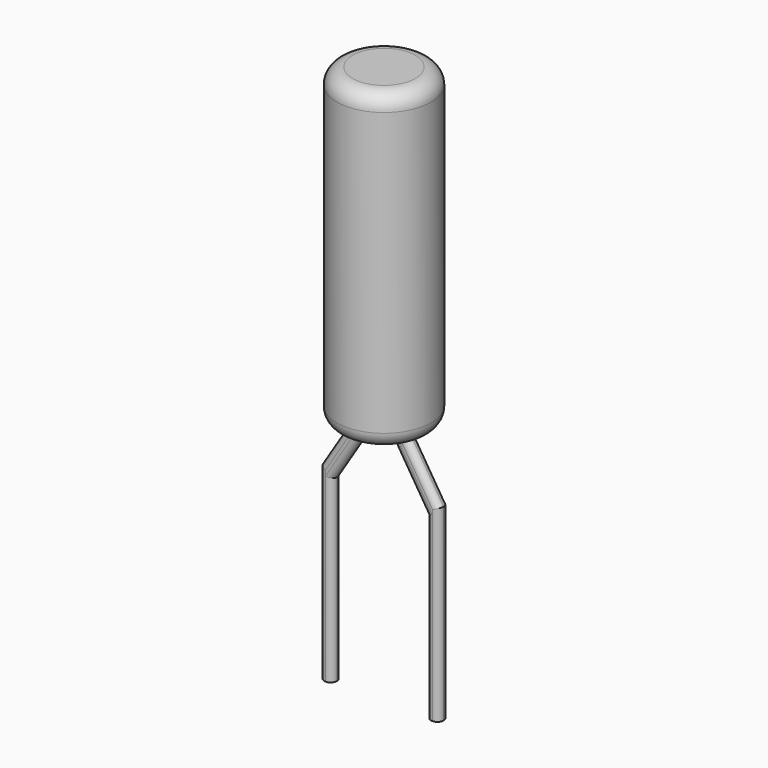
from build123d import *

# Parameters (mm, degrees)
PAD_DEPTH = 0.1
FILLET_R  = 0.0998


with BuildPart() as revolution:
    # Sketch002 → Revolution (revolve)
    with BuildSketch(Plane.XZ):
        with BuildLine():
            Line((0.35, 5.96), (0.85, 5.96))
            Line((0.85, 0.96), (0.85, 5.96))
            Line((0.85, 0.96), (0.35, 0.96))
            ThreePointArc((0.1, 1.21), (0.173223, 1.033223), (0.35, 0.96))
            Line((0.1, 1.21), (0.1, 5.71))
            ThreePointArc((0.35, 5.96), (0.173223, 5.886777), (0.1, 5.71))
        make_face()
    revolve(axis=Axis((0.85, 0, 5.96), (0, 0, -1)))


with BuildPart() as fillet_body:
    # Sketch → Pad (new body, symmetric)
    with BuildSketch(Plane.XZ):
        Polygon((0.1, -2.9), (0.1, -0.041421), (0.6, 0.758579), (0.6, 1), (0.4, 1), (0.4, 0.9), (-0.1, 0.1), (-0.1, -2.9), align=None)
        Polygon((1.1, 1), (1.3, 1), (1.3, 0.9), (1.8, 0.1), (1.8, -2.9), (1.6, -2.9), (1.6, -0.041421), (1.1, 0.758579), align=None)
    extrude(amount=PAD_DEPTH, both=True)

    # Fillet
    fillet_edges = [fillet_body.edges().sort_by_distance(p)[0] for p in [
        (0.15, -0.1, 0.5),
        (0.4, -0.1, 0.95),
        (0.6, -0.1, 0.879289),
        (0.35, -0.1, 0.358579),
        (0.1, -0.1, -1.470711),
        (-0.1, -0.1, -1.4),
        (0.1, 0.1, -1.470711),
        (0.35, 0.1, 0.358579),
        (0.6, 0.1, 0.879289),
        (1.35, -0.1, 0.358579),
        (1.1, -0.1, 0.879289),
        (1.6, -0.1, -1.470711),
        (1.8, -0.1, -1.4),
        (1.55, -0.1, 0.5),
        (1.3, -0.1, 0.95),
        (1.3, 0.1, 0.95),
        (1.55, 0.1, 0.5),
        (1.8, 0.1, -1.4),
        (1.6, 0.1, -1.470711),
        (1.35, 0.1, 0.358579),
        (1.1, 0.1, 0.879289),
        (0.4, 0.1, 0.95),
        (-0.1, 0.1, -1.4),
        (0.15, 0.1, 0.5),
    ]]
    fillet(fillet_edges, radius=FILLET_R)


solid = Compound([revolution.part, fillet_body.part])
